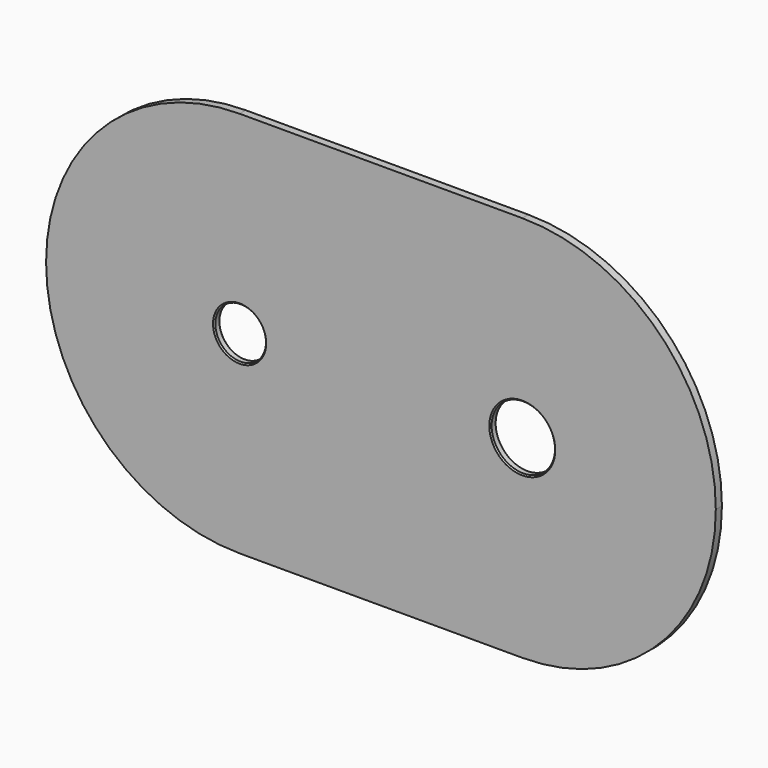
from build123d import *

# Parameters (mm, degrees)
F0_R     = 9.95
F0_R_2   = 12.45
F1_DEPTH = 3
F2_SIZE  = 0.5


with BuildPart() as f1:
    # F0 (on Front) → F1 (new body)
    with BuildSketch(Plane.XZ):
        with BuildLine():
            ThreePointArc((55.5, -51.9206124771), (30.2492433933, -69.7207521053), (0, -76))
            Line((0, -76), (111, -76))
            ThreePointArc((111, -76), (80.7507566067, -69.7207521053), (55.5, -51.9206124771))
        make_face()
        with BuildLine():
            ThreePointArc((55.5, 51.9206124771), (30.2492433933, 69.7207521053), (0, 76))
            ThreePointArc((0, 76), (-76, 0), (0, -76))
            ThreePointArc((0, -76), (30.2492433933, -69.7207521053), (55.5, -51.9206124771))
            ThreePointArc((55.5, -51.9206124771), (35, 0), (55.5, 51.9206124771))
        make_face()
        Circle(F0_R, mode=Mode.SUBTRACT)
        with BuildLine():
            ThreePointArc((111, 76), (80.7507566067, 69.7207521053), (55.5, 51.9206124771))
            ThreePointArc((55.5, 51.9206124771), (70.6894617323, 27.9105714739), (76, 0))
            ThreePointArc((76, 0), (70.6894617323, -27.9105714739), (55.5, -51.9206124771))
            ThreePointArc((55.5, -51.9206124771), (80.7507566067, -69.7207521053), (111, -76))
            ThreePointArc((111, -76), (164.7401153702, -53.7401153702), (187, 0))
            ThreePointArc((187, 0), (164.7401153702, 53.7401153702), (111, 76))
        make_face()
        with Locations((111, 0)):
            Circle(F0_R_2, mode=Mode.SUBTRACT)
        with BuildLine():
            ThreePointArc((76, 0), (70.6894617323, 27.9105714739), (55.5, 51.9206124771))
            ThreePointArc((55.5, 51.9206124771), (35, 0), (55.5, -51.9206124771))
            ThreePointArc((55.5, -51.9206124771), (70.6894617323, -27.9105714739), (76, 0))
        make_face()
        with BuildLine():
            Line((111, 76), (0, 76))
            ThreePointArc((0, 76), (30.2492433933, 69.7207521053), (55.5, 51.9206124771))
            ThreePointArc((55.5, 51.9206124771), (80.7507566067, 69.7207521053), (111, 76))
        make_face()
    extrude(amount=F1_DEPTH)

    # F2
    f2_edges = [f1.edges().sort_by_distance(p)[0] for p in [
        (-9.95, -3, 0),
        (-9.95, 0, 0),
        (98.55, 0, 0),
        (98.55, -3, 0),
    ]]
    chamfer(f2_edges, length=F2_SIZE)


solid = f1.part
